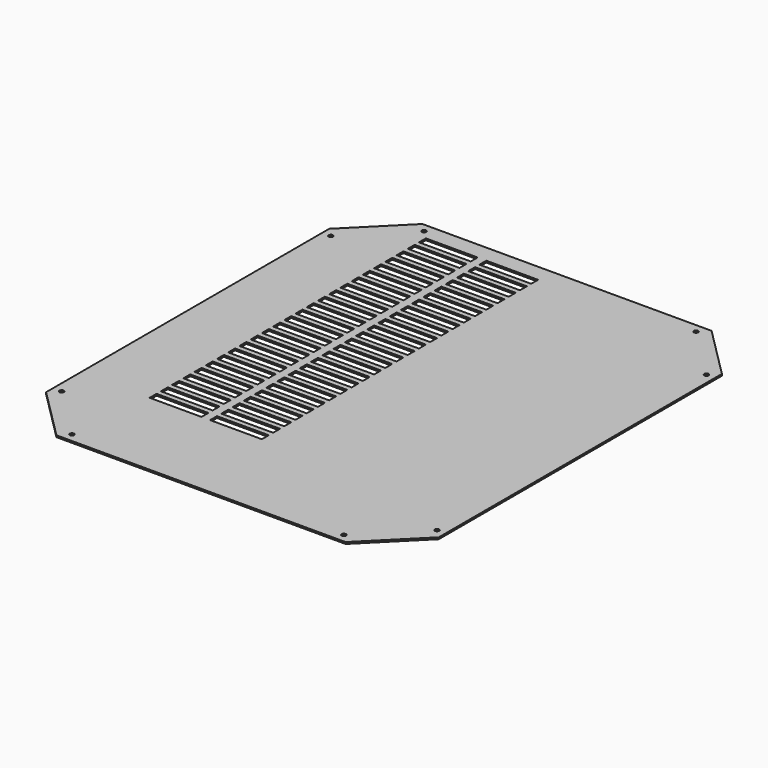
from build123d import *

# Parameters (mm, degrees)
SKETCH_R            = 2.5
PAD_DEPTH           = 2
SKETCH001_W         = 60
SKETCH001_H         = 10
POCKET_DEPTH        = 5
LINEARPATTERN_COUNT = 25
LINEARPATTERN_PITCH = 16.25


with BuildPart() as part:
    # Sketch → Pad (new body)
    with BuildSketch(Plane.XY):
        Polygon((-239.80033, 196.363202), (-179.80033, 256.363202), (155.19967, 256.363202), (215.19967, 196.363202), (215.19967, -213.636798), (155.19967, -273.636798), (-179.80033, -273.636798), (-239.80033, -213.636798), align=None)
        with Locations((-169.80033, 246.363202)):
            Circle(SKETCH_R, mode=Mode.SUBTRACT)
        with Locations((145.19967, 246.363202)):
            Circle(SKETCH_R, mode=Mode.SUBTRACT)
        with Locations((205.19967, 186.363202)):
            Circle(SKETCH_R, mode=Mode.SUBTRACT)
        with Locations((205.19967, -203.636798)):
            Circle(SKETCH_R, mode=Mode.SUBTRACT)
        with Locations((145.19967, -263.636798)):
            Circle(SKETCH_R, mode=Mode.SUBTRACT)
        with Locations((-169.80033, -263.636798)):
            Circle(SKETCH_R, mode=Mode.SUBTRACT)
        with Locations((-229.80033, -203.636798)):
            Circle(SKETCH_R, mode=Mode.SUBTRACT)
        with Locations((-229.80033, 186.363202)):
            Circle(SKETCH_R, mode=Mode.SUBTRACT)
    extrude(amount=PAD_DEPTH)

    # Sketch001 → Pocket (cut)
    with BuildSketch(Plane.XY.offset(2)):
        with Locations((-129.80033, 231.363202)):
            Rectangle(SKETCH001_W, SKETCH001_H)
        with Locations((-59.80033, 231.363202)):
            Rectangle(SKETCH001_W, SKETCH001_H)
    pocket = extrude(amount=-POCKET_DEPTH, mode=Mode.SUBTRACT)

    # LinearPattern: Pocket ×25
    with Locations(*[(0, -i * LINEARPATTERN_PITCH, 0) for i in range(1, LINEARPATTERN_COUNT)]):
        add(pocket, mode=Mode.SUBTRACT)


solid = part.part
